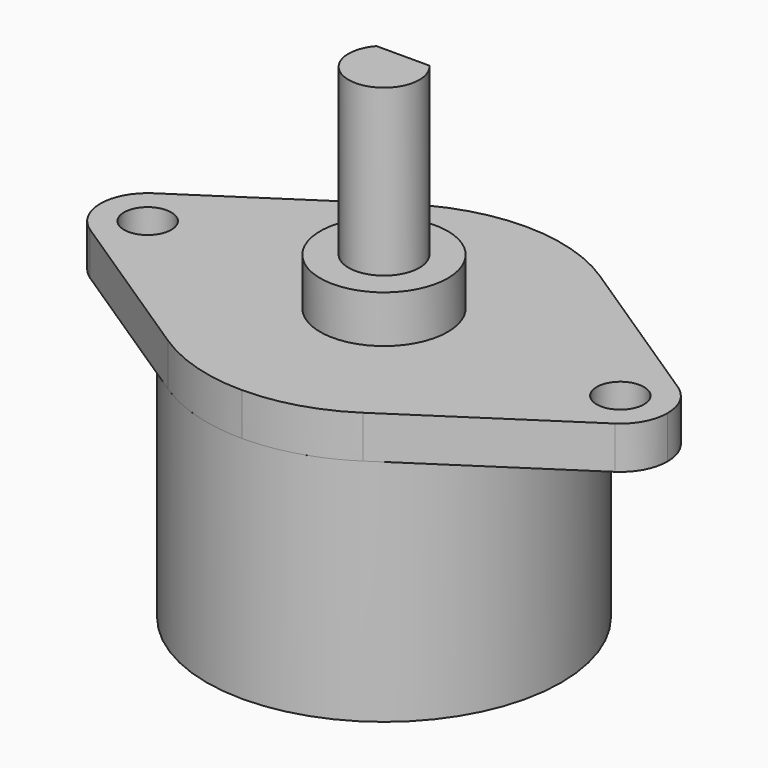
from build123d import *

# Parameters (mm, degrees)
SKETCH_R     = 1
PAD_DEPTH    = 1.8
SKETCH001_R  = 2.7
PAD001_DEPTH = 2
PAD002_DEPTH = 7
SKETCH003_R  = 7.5
PAD003_DEPTH = 11.5


with BuildPart() as part:
    # Sketch → Pad (new body)
    with BuildSketch(Plane.XY):
        with BuildLine():
            Line((-11.100001, 1.670329), (-4.125003, 6.263736))
            ThreePointArc((0, 7.500002), (-2.153137, 7.184291), (-4.125003, 6.263736))
            ThreePointArc((4.125003, 6.263736), (2.153137, 7.184291), (0, 7.500002))
            Line((11.100001, 1.670329), (4.125003, 6.263736))
            ThreePointArc((12, 0), (11.760682, 0.948683), (11.100001, 1.670329))
            ThreePointArc((11.100001, -1.670329), (11.760682, -0.948683), (12, 0))
            Line((11.100001, -1.670329), (4.125003, -6.263736))
            ThreePointArc((0, -7.500002), (2.153137, -7.184291), (4.125003, -6.263736))
            ThreePointArc((-4.125003, -6.263736), (-2.153137, -7.184291), (0, -7.500002))
            Line((-11.100001, -1.670329), (-4.125003, -6.263736))
            ThreePointArc((-12, 0), (-11.760682, -0.948683), (-11.100001, -1.670329))
            ThreePointArc((-11.100001, 1.670329), (-11.760682, 0.948683), (-12, 0))
        make_face()
        with Locations((-10, 0)):
            Circle(SKETCH_R, mode=Mode.SUBTRACT)
        with Locations((10, 0)):
            Circle(SKETCH_R, mode=Mode.SUBTRACT)
    extrude(amount=PAD_DEPTH)

    # Sketch001 (on Face8 of Pad) → Pad001 (join)
    with BuildSketch(Plane.XY.offset(1.8)):
        Circle(SKETCH001_R)
    extrude(amount=PAD001_DEPTH)

    # Sketch002 (on Face14 of Pad001) → Pad002 (join)
    with BuildSketch(Plane.XY.offset(3.8)):
        with BuildLine():
            Line((-1.118034, 1), (1.118034, 1))
            ThreePointArc((-1.118034, 1), (0, -1.5), (1.118034, 1))
        make_face()
    extrude(amount=PAD002_DEPTH)

    # Sketch003 (on Face5 of Pad002) → Pad003 (join)
    with BuildSketch(Plane.XY.offset(1.8)):
        Circle(SKETCH003_R)
    extrude(amount=-PAD003_DEPTH)


with BuildPart() as part_1:
    # Body placement: moved
    add(part.part.moved(Location((0, 0, 9.7))))


solid = part_1.part
